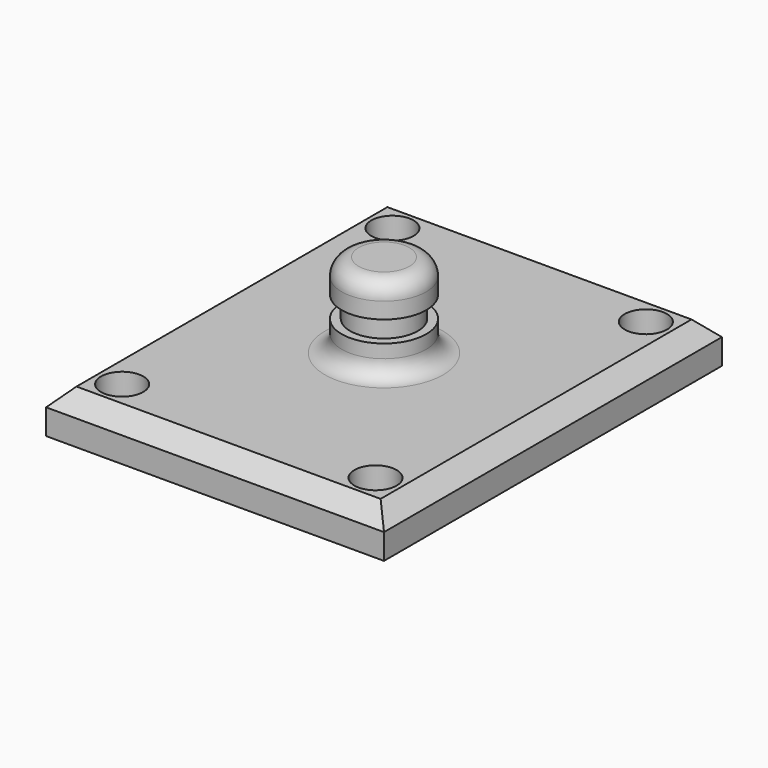
from build123d import *

# Parameters (mm, degrees)
F0_W     = 101.6
F0_H     = 127
F1_DEPTH = 12.7
F2_R     = 6.35
F3_DEPTH = 12.701
F4_W     = 12.7
F4_H     = 25.4
F6_W     = 12.7
F6_H     = 6.35
F8_R     = 5.08
F9_SIZE2 = 5.08
F9_SIZE  = 5.08


with BuildPart() as f1:
    # F0 (on Top) → F1 (new body)
    with BuildSketch(Plane.XY):
        Rectangle(F0_W, F0_H)
    extrude(amount=F1_DEPTH)

    # F2 (on face) → F3 (cut, through all)
    with BuildSketch(Plane.XY.offset(12.7)):
        with Locations((-38.1, 50.8)):
            Circle(F2_R)
        with Locations((38.1, 50.8)):
            Circle(F2_R)
        with Locations((-38.1, -50.8)):
            Circle(F2_R)
        with Locations((38.1, -50.8)):
            Circle(F2_R)
    extrude(amount=-F3_DEPTH, mode=Mode.SUBTRACT)

    # F4 (on Front) → F5 (revolve)
    with BuildSketch(Plane.XZ):
        with Locations((6.35, 25.4)):
            Rectangle(F4_W, F4_H)
    revolve(axis=Axis((0, 0, 25.4), (0, 0, 1)))

    # F6 (on Front) → F7 (revolve, cut)
    with BuildSketch(Plane.XZ):
        with Locations((16.51, 24.988093)):
            Rectangle(F6_W, F6_H)
    revolve(axis=Axis((0, 0, 12.7), (0, 0, 1)), mode=Mode.SUBTRACT)

    # F8
    f8_edges = [f1.edges().sort_by_distance(p)[0] for p in [
        (-12.7, 0, 12.7),
        (-12.7, 0, 38.1),
    ]]
    fillet(f8_edges, radius=F8_R)

    # F9
    f9_edges = [f1.edges().sort_by_distance(p)[0] for p in [
        (-50.8, 0, 12.7),
        (0, -63.5, 12.7),
        (0, 63.5, 12.7),
        (50.8, 0, 12.7),
    ]]
    chamfer(f9_edges, length=F9_SIZE, length2=F9_SIZE2)


solid = f1.part
